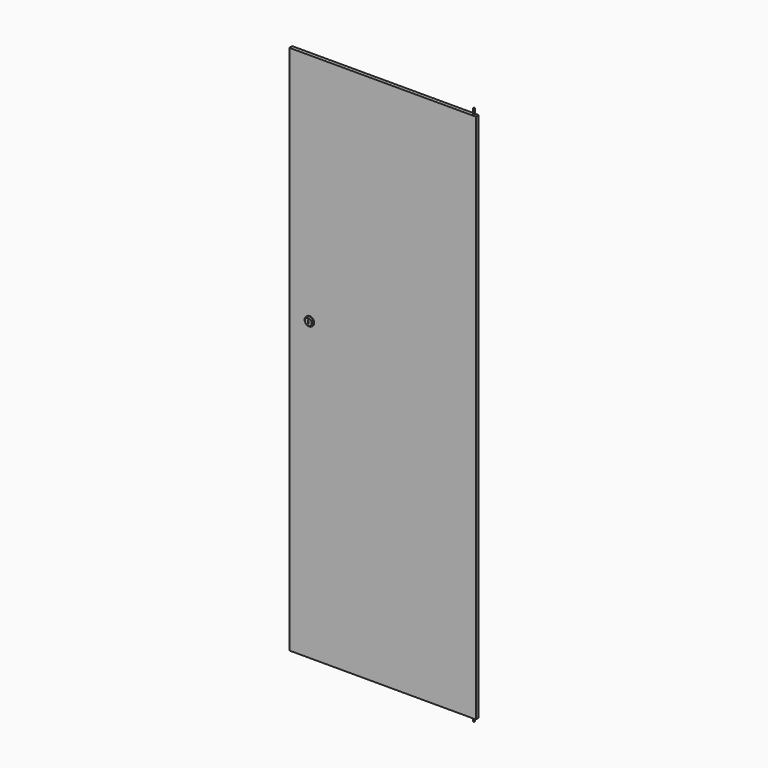
from build123d import *

# Parameters (mm, degrees)
F0_W          = 518
F0_H          = 10
F1_DEPTH      = 1474
F2_T          = -1
F3_R          = 2
F4_DEPTH      = 10
F4_DEPTH_BACK = 1490
F5_R          = 12.5
F6_DEPTH      = 5
F7_SIZE       = 3
F8_W          = 1.794569
F8_H          = 11.12199
F9_DEPTH      = 5
F10_W         = 102.76919
F10_H         = 149.015308
F11_DEPTH     = 15
F12_W         = 150
F12_H         = 1375
F13_DEPTH     = 15


with BuildPart() as f1:
    # F0 (on Top) → F1 (new body)
    with BuildSketch(Plane.XY):
        with Locations((259, 5)):
            Rectangle(F0_W, F0_H)
    extrude(amount=F1_DEPTH)

    # F2
    f2_openings = [f1.faces().sort_by_distance(p)[0] for p in [
        (259, 10, 737),
    ]]
    offset(amount=F2_T, openings=f2_openings)

    # F3 (on face) → F4 (join, two sides)
    with BuildSketch(Plane(origin=(0, 0, 0), x_dir=(1, 0, 0), z_dir=(0, 0, -1))) as f4_sk:
        with Locations((509, -5)):
            Circle(F3_R)
    extrude(amount=F4_DEPTH)
    extrude(f4_sk.sketch, amount=-F4_DEPTH_BACK)

    # F5 (on face) → F6 (join)
    with BuildSketch(Plane.XZ):
        with Locations((56.609962, 824)):
            Circle(F5_R)
    extrude(amount=F6_DEPTH)

    # F7
    f7_edges = [f1.edges().sort_by_distance(p)[0] for p in [
        (44.109962, -5, 824),
    ]]
    chamfer(f7_edges, length=F7_SIZE)

    # F8 (on face) → F9 (cut)
    with BuildSketch(Plane.XZ.offset(5)):
        with Locations((56.609962, 824)):
            Rectangle(F8_W, F8_H)
    extrude(amount=-F9_DEPTH, mode=Mode.SUBTRACT)

    # F10 (on face) → F11 (join)
    with BuildSketch(Plane(origin=(0, 1, 0), x_dir=(-1, 0, 0), z_dir=(0, 1, 0))):
        with Locations((-56.717325, 824.265957)):
            Rectangle(F10_W, F10_H)
    extrude(amount=F11_DEPTH)

    # F12 (on face) → F13 (join)
    with BuildSketch(Plane(origin=(0, 1, 0), x_dir=(-1, 0, 0), z_dir=(0, 1, 0))):
        with Locations((-259, 736.5)):
            Rectangle(F12_W, F12_H)
    extrude(amount=F13_DEPTH)


solid = f1.part
